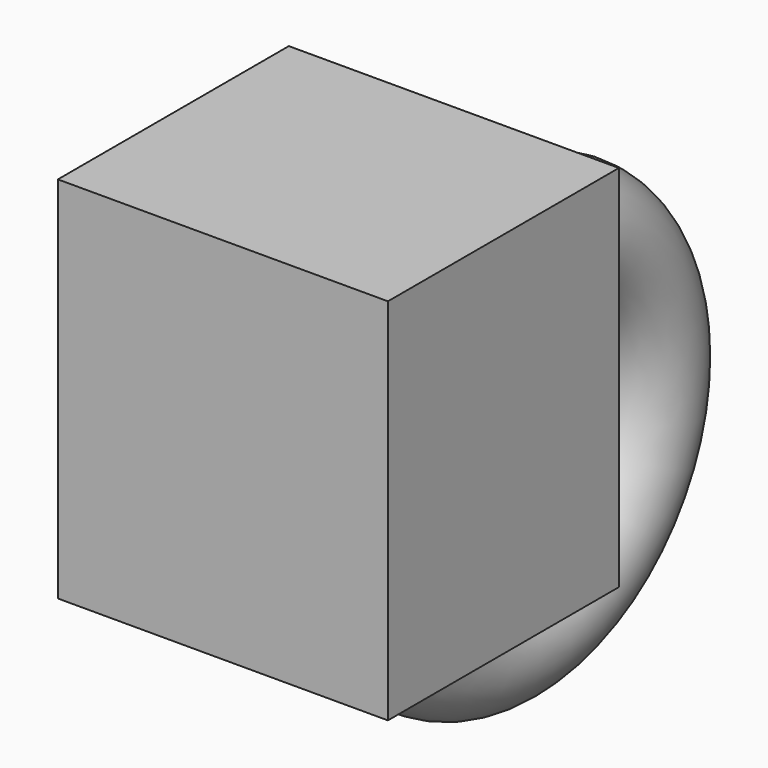
from build123d import *

# Parameters (mm, degrees)
F0_R     = 5
F2_W     = 28.58372
F2_H     = 31.953626
F3_DEPTH = 25


with BuildPart() as f1:
    # F0 (on Front) → F1 (revolve)
    with BuildSketch(Plane.XZ):
        with Locations((0, 15)):
            Circle(F0_R)
    revolve(axis=Axis((3.545721, 0, 0), (1, 0, 0)))


with BuildPart() as f3:
    # F2 (on Front) → F3 (new body)
    with BuildSketch(Plane.XZ):
        with Locations((-3.803583, 7.867921)):
            Rectangle(F2_W, F2_H)
    extrude(amount=F3_DEPTH)


solid = Compound([f1.part, f3.part])
